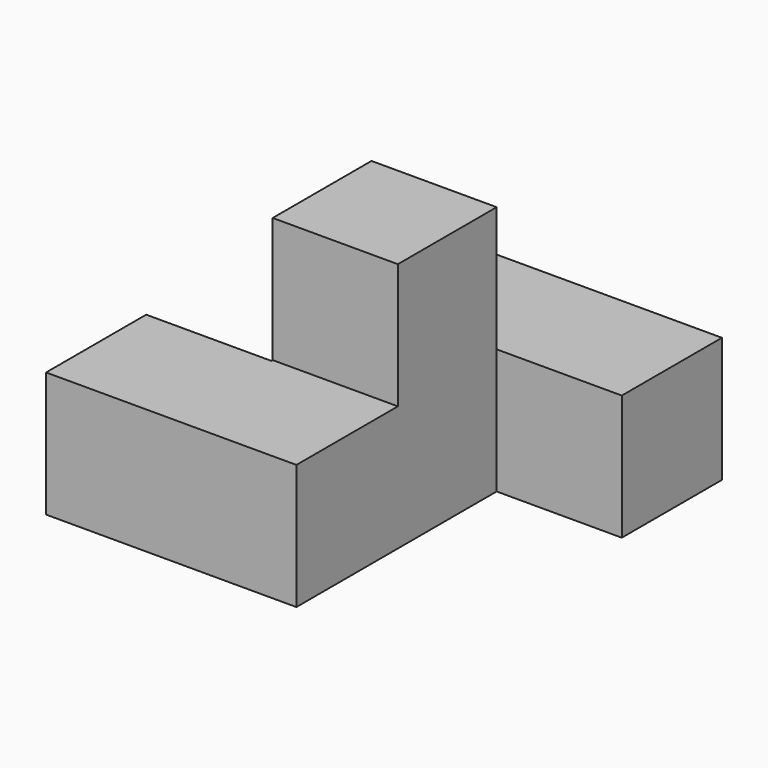
from build123d import *

# Parameters (mm, degrees)
F0_W     = 19.05
F0_H     = 19.05
F1_DEPTH = 19.05
F2_W     = 19.05
F2_H     = 18.796
F3_DEPTH = 19.05


with BuildPart() as f1:
    # F0 (on Top) → F1 (new body)
    with BuildSketch(Plane.XY):
        with Locations((34.051876, 47.625)):
            Rectangle(F0_W, F0_H)
        with Locations((15.001876, 47.625)):
            Rectangle(F0_W, F0_H)
        with Locations((15.001876, 9.525)):
            Rectangle(F0_W, F0_H)
        with Locations((-4.048124, 9.525)):
            Rectangle(F0_W, F0_H)
        with Locations((15.001876, 28.575)):
            Rectangle(F0_W, F0_H)
    extrude(amount=F1_DEPTH)

    # F2 (on face) → F3 (join)
    with BuildSketch(Plane.XY.offset(19.05)):
        with Locations((15.001876, 28.702)):
            Rectangle(F2_W, F2_H)
    extrude(amount=F3_DEPTH)


solid = f1.part
